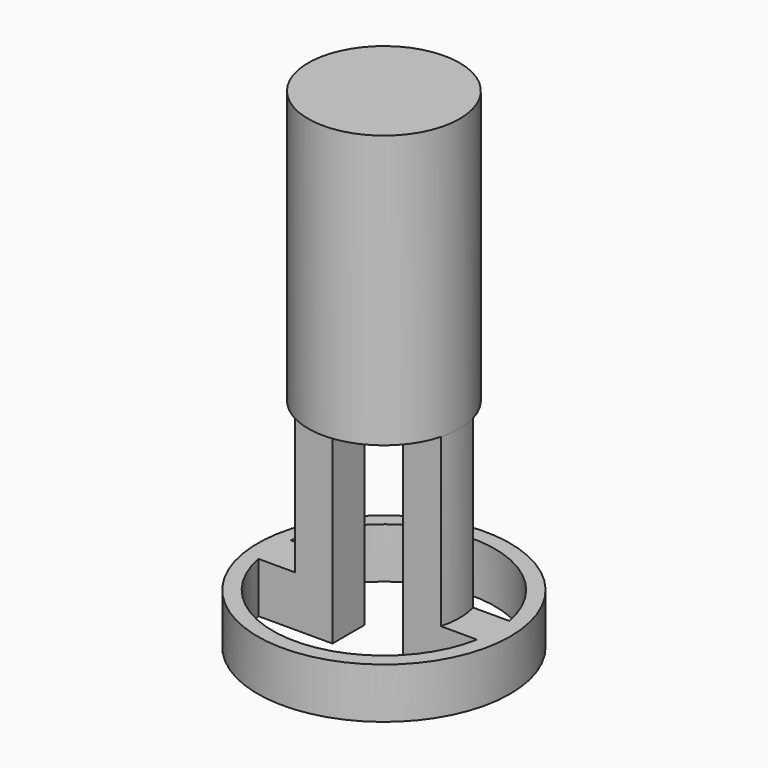
from build123d import *

# Parameters (mm, degrees)
SKETCH_R     = 7.5
PAD_DEPTH    = 9
SKETCH001_R  = 7.5
PAD001_DEPTH = 2
SKETCH002_R  = 7.5
PAD002_DEPTH = 9
SKETCH003_R  = 7.5
PAD003_DEPTH = 1.5
SKETCH004_R  = 7.5
PAD004_DEPTH = 5.5
PAD005_DEPTH = 21.5
SKETCH006_R  = 12.5
PAD006_DEPTH = 5


with BuildPart() as part:
    # Sketch → Pad (new body)
    with BuildSketch(Plane.XY):
        Circle(SKETCH_R)
    extrude(amount=PAD_DEPTH)

    # Sketch001 (on Face3 of Pad) → Pad001 (join)
    with BuildSketch(Plane.XY.offset(9)):
        Circle(SKETCH001_R)
    extrude(amount=PAD001_DEPTH)

    # Sketch002 (on Face4 of Pad001) → Pad002 (join)
    with BuildSketch(Plane.XY.offset(11)):
        Circle(SKETCH002_R)
    extrude(amount=PAD002_DEPTH)

    # Sketch003 (on Face5 of Pad002) → Pad003 (join)
    with BuildSketch(Plane.XY.offset(20)):
        Circle(SKETCH003_R)
    extrude(amount=PAD003_DEPTH)

    # Sketch004 (on Face2 of Pad003) → Pad004 (join)
    with BuildSketch(Plane(origin=(0, 0, 0), x_dir=(1, 0, 0), z_dir=(0, 0, -1))):
        Circle(SKETCH004_R)
    extrude(amount=PAD004_DEPTH)

    # Sketch005 (on Face4 of Pad004) → Pad005 (join)
    with BuildSketch(Plane(origin=(0, 0, -5.5), x_dir=(1, 0, 0), z_dir=(0, 0, -1))):
        with BuildLine():
            Line((3.5, 2), (3.5, -2))
            Line((3.5, -2), (7.228416, -2))
            ThreePointArc((7.228416, -2), (7.5, 0), (7.228416, 2))
            Line((3.5, 2), (7.228416, 2))
        make_face()
        with BuildLine():
            Line((-3.5, 2), (-3.5, -2))
            Line((-3.5, -2), (-7.228416, -2))
            ThreePointArc((-7.228416, 2), (-7.5, 0), (-7.228416, -2))
            Line((-3.5, 2), (-7.228416, 2))
        make_face()
    extrude(amount=PAD005_DEPTH)

    # Sketch006 (on Face15 of Pad005) → Pad006 (join)
    with BuildSketch(Plane(origin=(0, 0, -27), x_dir=(1, 0, 0), z_dir=(0, 0, -1))):
        Circle(SKETCH006_R)
        with BuildLine():
            ThreePointArc((10.816654, 2), (0, 11), (-10.816654, 2))
            Line((-3.5, 2), (-10.816654, 2))
            Line((-3.5, -2), (-3.5, 2))
            Line((-10.816654, -2), (-3.5, -2))
            ThreePointArc((-10.816654, -2), (0, -11), (10.816654, -2))
            Line((10.816654, -2), (3.5, -2))
            Line((3.5, -2), (3.5, 2))
            Line((3.5, 2), (10.816654, 2))
        make_face(mode=Mode.SUBTRACT)
    extrude(amount=-PAD006_DEPTH)


solid = part.part
